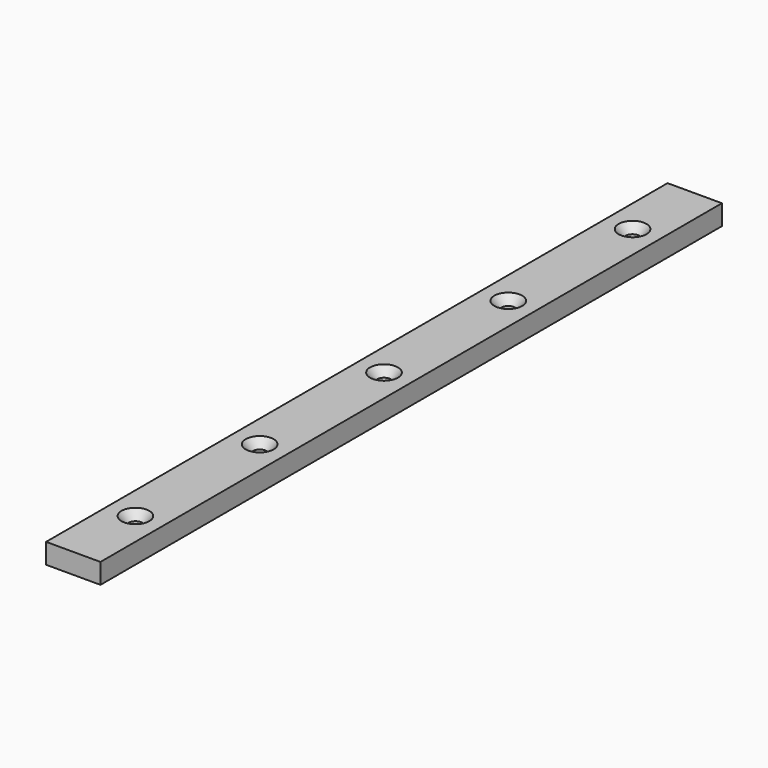
from build123d import *

# Parameters (mm, degrees)
F0_W           = 17.78
F0_H           = 254
F1_DEPTH       = 6.604
F3_D           = 4.4958
F3_CSINK_D     = 9.1186
F3_CSINK_ANGLE = 82


with BuildPart() as f1:
    # F0 (on Top) → F1 (new body)
    with BuildSketch(Plane.XY):
        with Locations((3.0019969136, 40.122719574)):
            Rectangle(F0_W, F0_H)
    extrude(amount=F1_DEPTH)

    # F3 (through all)
    with Locations(Plane.XY.offset(6.604)):
        with Locations((3.0019969136, 141.722719574), (3.0019969136, 90.922719574), (3.0019969136, 40.122719574), (3.0019969136, -10.677280426), (3.0019969136, -61.477280426)):
            CounterSinkHole(F3_D / 2, F3_CSINK_D / 2, counter_sink_angle=F3_CSINK_ANGLE)


solid = f1.part
